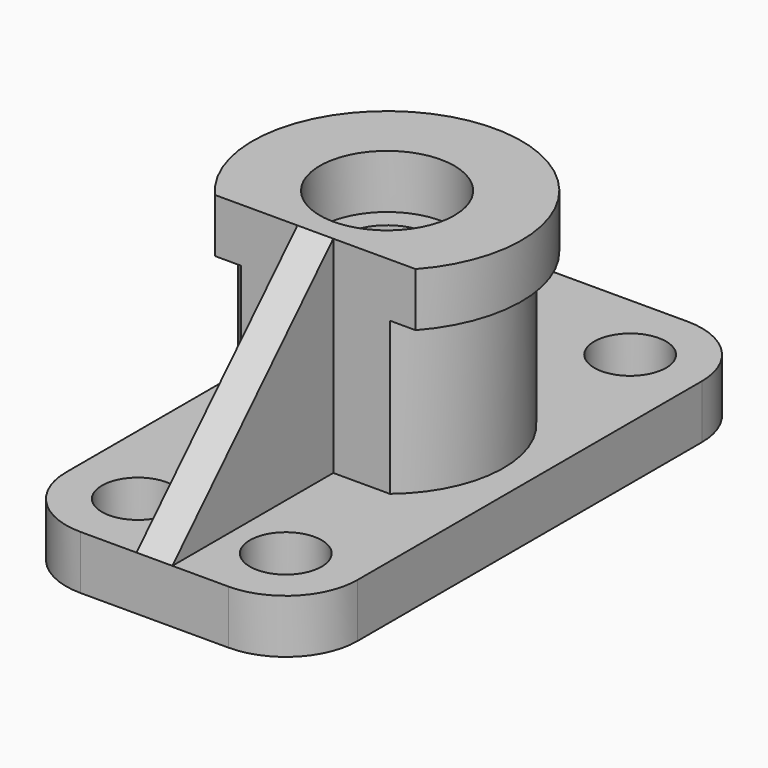
from build123d import *

# Parameters (mm, degrees)
F1_DEPTH  = 12
F2_R      = 8
F3_DEPTH  = 25
F4_R      = 26
F5_DEPTH  = 46
F6_R      = 10
F7_DEPTH  = 58
F8_R      = 30
F9_DEPTH  = 12
F10_R     = 15
F11_DEPTH = 12
F13_DEPTH = 46
F15_DEPTH = 46
F17_DEPTH = 8


with BuildPart() as f1:
    # F0 (on Top) → F1 (new body)
    with BuildSketch(Plane.XY):
        with BuildLine():
            ThreePointArc((-31.2778624006, 63.140702188), (-42.5915708996, 58.454410687), (-47.2778624006, 47.140702188))
            Line((-47.2778624006, 47.140702188), (-47.2778624006, -48.859297812))
            ThreePointArc((-47.2778624006, -48.859297812), (-42.5915708996, -60.173006311), (-31.2778624006, -64.859297812))
            Line((-31.2778624006, -64.859297812), (1.7221375994, -64.859297812))
            ThreePointArc((1.7221375994, -64.859297812), (13.0358460984, -60.173006311), (17.7221375994, -48.859297812))
            Line((17.7221375994, -48.859297812), (17.7221375994, 47.140702188))
            ThreePointArc((17.7221375994, 47.140702188), (13.0358460984, 58.454410687), (1.7221375994, 63.140702188))
            Line((1.7221375994, 63.140702188), (-31.2778624006, 63.140702188))
        make_face()
    extrude(amount=F1_DEPTH)

    # F2 (on face) → F3 (cut)
    with BuildSketch(Plane.XY.offset(12)):
        with Locations((-31.2778624006, 47.140702188)):
            Circle(F2_R)
        with Locations((1.7221375994, 47.140702188)):
            Circle(F2_R)
        with Locations((1.7221375994, -48.859297812)):
            Circle(F2_R)
        with Locations((-31.2778624006, -48.859297812)):
            Circle(F2_R)
    extrude(amount=-F3_DEPTH, mode=Mode.SUBTRACT)


with BuildPart() as f5:
    # F4 (on face) → F5 (new body)
    with BuildSketch(Plane.XY.offset(12)):
        with Locations((-14.7778624006, 0)):
            Circle(F4_R)
    extrude(amount=F5_DEPTH)

    # F6 (on face) → F7 (cut)
    with BuildSketch(Plane.XY.offset(58)):
        with Locations((-14.7778624006, 0)):
            Circle(F6_R)
    extrude(amount=-F7_DEPTH, mode=Mode.SUBTRACT)

    # F8 (on face) → F9 (join)
    with BuildSketch(Plane.XY.offset(58)):
        with Locations((-14.7778624006, 0)):
            Circle(F8_R)
    extrude(amount=-F9_DEPTH)

    # F10 (on face) → F11 (cut)
    with BuildSketch(Plane.XY.offset(58)):
        with Locations((-14.7778624006, 0)):
            Circle(F10_R)
    extrude(amount=-F11_DEPTH, mode=Mode.SUBTRACT)

    # F12 (on face) → F13 (cut, through all)
    with BuildSketch(Plane.XY.offset(58)):
        with BuildLine():
            Line((7.5828173744, -20), (-37.1385421756, -20))
            ThreePointArc((-37.1385421756, -20), (-14.7778624006, -30), (7.5828173744, -20))
        make_face()
    extrude(amount=-F13_DEPTH, mode=Mode.SUBTRACT)


with BuildPart() as f15:
    # F14 (on face) → F15 (new body)
    with BuildSketch(Plane.XY.offset(12)):
        Polygon((-18.7778624006, -19.9992656708), (-18.7778624006, -64.859297812), (-10.7778624006, -64.859297812), (-10.7778624006, -19.9992656708), (-14.7778624006, -19.9992656708), align=None)
    extrude(amount=F15_DEPTH)


with BuildPart() as f17_tool:
    # F16 (on face) → F17 (new body)
    with BuildSketch(Plane.YZ.offset(-10.7778624006)):
        Polygon((-64.859297812, 12), (-19.9992656708, 58), (-64.859297812, 58), align=None)
    extrude(amount=-F17_DEPTH)


with BuildPart() as f5_1:
    add(f5.part)

    # F17: cut by f17_tool
    add(f17_tool.part, mode=Mode.SUBTRACT)


with BuildPart() as f15_1:
    add(f15.part)

    # F17: cut by f17_tool
    add(f17_tool.part, mode=Mode.SUBTRACT)


solid = Compound([f1.part, f5_1.part, f15_1.part])
